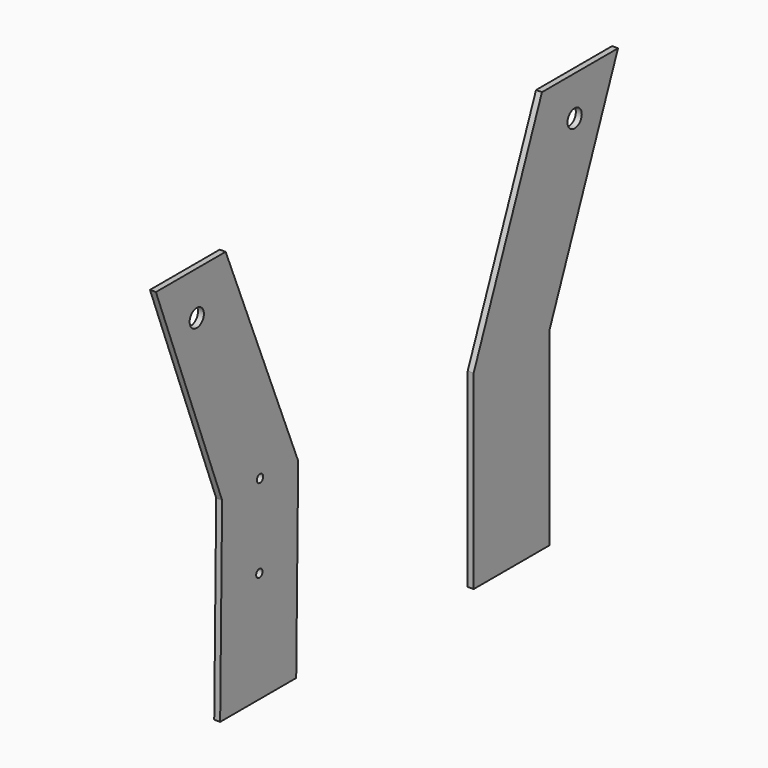
from build123d import *

# Parameters (mm, degrees)
F0_R     = 7.1501
F0_R_2   = 3.175
F1_DEPTH = 4.7498


with BuildPart() as f1:
    # F0 (on Right) → F1 (new body)
    with BuildSketch(Plane.YZ):
        Polygon((-38.1, -165.1), (38.1, -165.1), (38.1, -12.7), (106.559555, 157.723664), (30.359555, 157.723664), (-38.1, -12.7), align=None)
        with Locations((63.078348, 125.973664)):
            Circle(F0_R, mode=Mode.SUBTRACT)
        Polygon((-292.060516, -155.567557), (-215.860516, -155.567557), (-213.88826, -3.167552), (-286.580233, 173.92881), (-356.430233, 173.92881), (-290.08826, 0), align=None)
        with Locations((-252.810129, -66.667557)):
            Circle(F0_R_2, mode=Mode.SUBTRACT)
        with Locations((-252.107382, 0.007443)):
            Circle(F0_R_2, mode=Mode.SUBTRACT)
        with Locations((-315.48826, 139.063232)):
            Circle(F0_R, mode=Mode.SUBTRACT)
    extrude(amount=F1_DEPTH)


solid = f1.part
